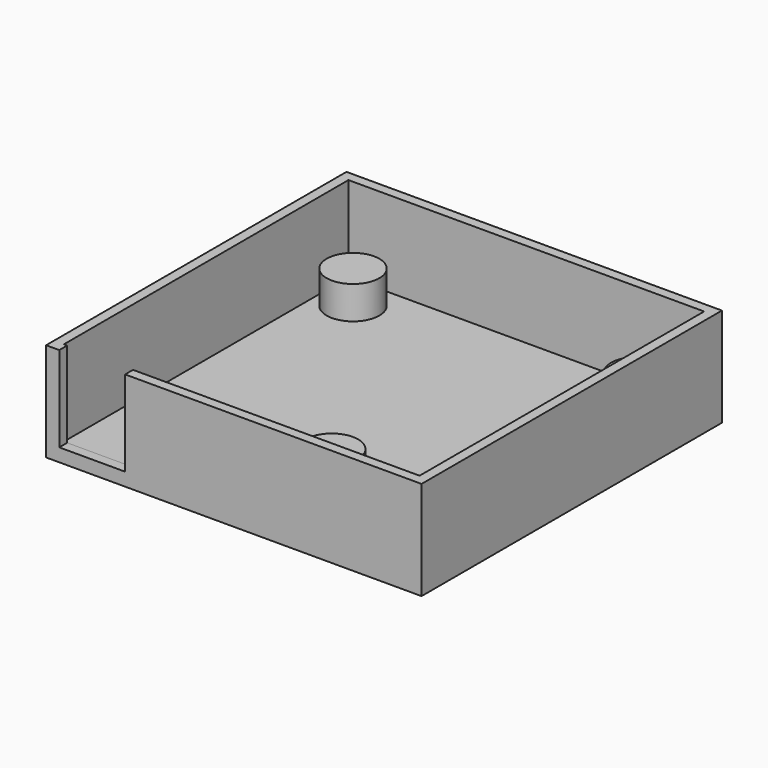
from build123d import *

# Parameters (mm, degrees)
F0_W      = 57
F0_H      = 57
F0_W_2    = 54
F0_H_2    = 54
F1_DEPTH  = 15
F0_R      = 4
F2_DEPTH  = 7
F3_DEPTH  = 2
F4_W      = 10
F4_H      = 14
F1_FACE_W = 57
F1_FACE_H = 15
F5_DEPTH  = 28.501


with BuildPart() as f1:
    # F0 (on Top) → F1 (new body)
    with BuildSketch(Plane.XY):
        Rectangle(F0_W, F0_H)
        Rectangle(F0_W_2, F0_H_2, mode=Mode.SUBTRACT)
    extrude(amount=F1_DEPTH)

    # F4 (on Front) + F1_face (on face) → F5 (cut, through all)
    with BuildSketch(Plane.XZ):
        with Locations((-21.5, 9)):
            Rectangle(F4_W, F4_H)
    with BuildSketch(Plane(origin=(0, -28.5, 7.5), x_dir=(1, 0, 0), z_dir=(0, -1, 0))):
        Rectangle(F1_FACE_W, F1_FACE_H)
    extrude(amount=F5_DEPTH, mode=Mode.SUBTRACT)


with BuildPart() as f2:
    # F0 (on Top) → F2 (new body)
    with BuildSketch(Plane.XY):
        with Locations((-22, 21.620819)):
            Circle(F0_R)
        with Locations((21, 21.843243)):
            Circle(F0_R)
        with Locations((5, -16.156757)):
            Circle(F0_R)
    extrude(amount=F2_DEPTH)


with BuildPart() as f3:
    # F0 (on Top) → F3 (new body)
    with BuildSketch(Plane.XY):
        Rectangle(F0_W_2, F0_H_2)
        with Locations((5, -16.156757)):
            Circle(F0_R, mode=Mode.SUBTRACT)
        with Locations((-22, 21.620819)):
            Circle(F0_R, mode=Mode.SUBTRACT)
        with Locations((21, 21.843243)):
            Circle(F0_R, mode=Mode.SUBTRACT)
    extrude(amount=F3_DEPTH)


solid = Compound([f1.part, f2.part, f3.part])
